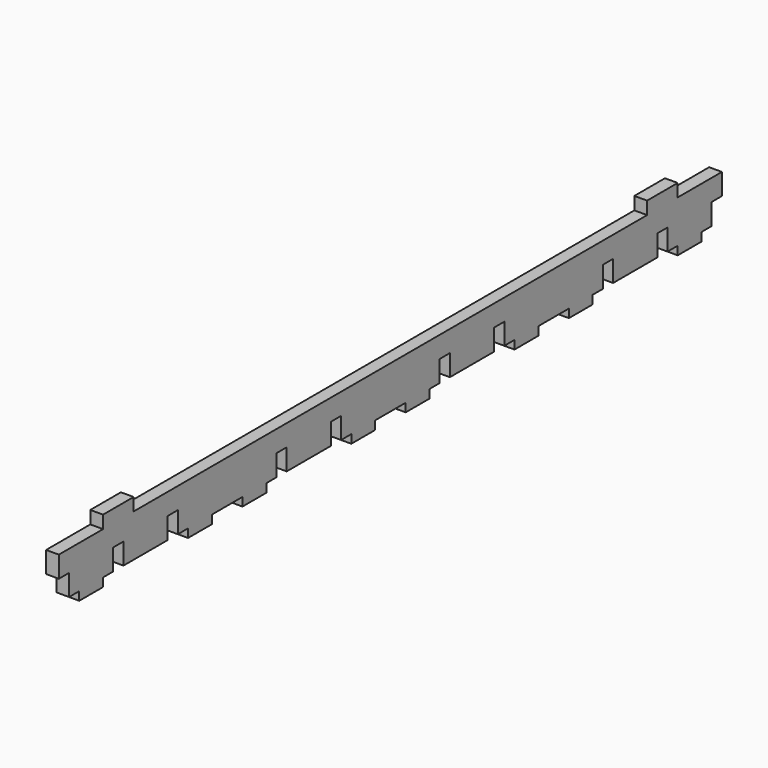
from build123d import *

# Parameters (mm, degrees)
F0_W     = 3
F0_H     = 5
F0_W_2   = 1.5
F1_DEPTH = 3


with BuildPart() as f1:
    # F0 (on Right) → F1 (new body)
    with BuildSketch(Plane.YZ):
        Polygon((1.5, 5), (1.5, 0), (4.5, 0), (4.5, -2), (11.5, -2), (11.5, 0), (14.5, 0), (14.5, 5), (14.5, 10), (11.5, 10), (1.5, 10), align=None)
        with Locations((16, 7.5)):
            Rectangle(F0_W, F0_H)
        Polygon((20.5, 10), (17.5, 10), (17.5, 5), (17.5, 0), (30.5, 0), (30.5, 5), (30.5, 10), align=None)
        with Locations((32, 7.5)):
            Rectangle(F0_W, F0_H)
        Polygon((33.5, 5), (33.5, 0), (36.5, 0), (36.5, -2), (43.5, -2), (43.5, 0), (48, 0), (52.5, 0), (52.5, -2), (59.5, -2), (59.5, 0), (62.5, 0), (62.5, 5), (62.5, 10), (33.5, 10), align=None)
        with Locations((64, 7.5)):
            Rectangle(F0_W, F0_H)
        Polygon((78.5, 10), (65.5, 10), (65.5, 5), (65.5, 0), (78.5, 0), (78.5, 5), align=None)
        with Locations((80, 7.5)):
            Rectangle(F0_W, F0_H)
        Polygon((110.5, 10), (81.5, 10), (81.5, 5), (81.5, 0), (84.5, 0), (84.5, -2), (91.5, -2), (91.5, 0), (96, 0), (100.5, 0), (100.5, -2), (107.5, -2), (107.5, 0), (110.5, 0), (110.5, 5), align=None)
        with Locations((112, 7.5)):
            Rectangle(F0_W, F0_H)
        Polygon((126.5, 10), (113.5, 10), (113.5, 5), (113.5, 0), (126.5, 0), (126.5, 5), align=None)
        with Locations((128, 7.5)):
            Rectangle(F0_W, F0_H)
        Polygon((158.5, 10), (129.5, 10), (129.5, 5), (129.5, 0), (132.5, 0), (132.5, -2), (139.5, -2), (139.5, 0), (144, 0), (148.5, 0), (148.5, -2), (155.5, -2), (155.5, 0), (158.5, 0), (158.5, 5), align=None)
        with Locations((160, 7.5)):
            Rectangle(F0_W, F0_H)
        Polygon((171.5, 10), (161.5, 10), (161.5, 5), (161.5, 0), (174.5, 0), (174.5, 5), (174.5, 10), align=None)
        with Locations((176, 7.5)):
            Rectangle(F0_W, F0_H)
        Polygon((180.5, 10), (177.5, 10), (177.5, 5), (177.5, 0), (180.5, 0), (180.5, -2), (187.5, -2), (187.5, 0), (190.5, 0), (190.5, 5), (190.5, 10), align=None)
        with Locations((0.75, 7.5)):
            Rectangle(F0_W_2, F0_H)
        with Locations((191.25, 7.5)):
            Rectangle(F0_W_2, F0_H)
        with Locations((192.75, 7.5)):
            Rectangle(F0_W_2, F0_H)
        with Locations((-0.75, 7.5)):
            Rectangle(F0_W_2, F0_H)
        with Locations((176, 7.5)):
            Rectangle(F0_W, F0_H)
        Polygon((171.5, 13), (171.5, 10), (174.5, 10), (177.5, 10), (180.5, 10), (180.5, 13), align=None)
        with Locations((16, 7.5)):
            Rectangle(F0_W, F0_H)
        Polygon((11.5, 13), (11.5, 10), (14.5, 10), (17.5, 10), (20.5, 10), (20.5, 13), align=None)
    extrude(amount=F1_DEPTH)


solid = f1.part
